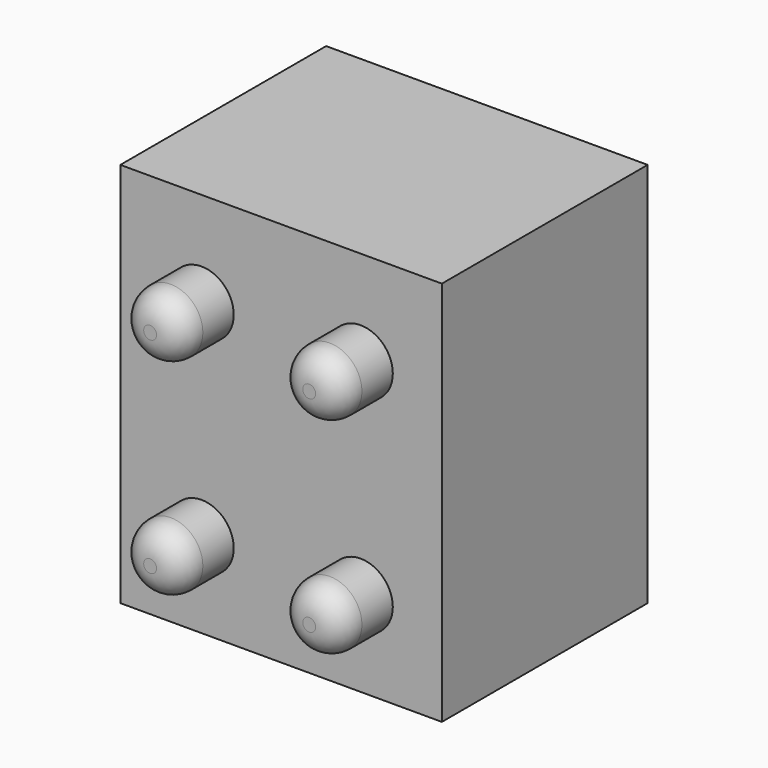
from build123d import *

# Parameters (mm, degrees)
F0_W     = 31.75
F0_H     = 38.1
F1_DEPTH = 25.4
F2_R     = 3.175
F3_DEPTH = 6.35
F4_R     = 2.54


with BuildPart() as f1:
    # F0 (on Front) → F1 (new body)
    with BuildSketch(Plane.XZ):
        Rectangle(F0_W, F0_H)
    extrude(amount=F1_DEPTH)


with BuildPart() as f3:
    # F2 (on face) → F3 (new body)
    with BuildSketch(Plane.XZ.offset(25.4)):
        with Locations((-7.853743, 9.653558)):
            Circle(F2_R)
        with Locations((7.853741, 9.653558)):
            Circle(F2_R)
        with Locations((-7.853743, -10.635276)):
            Circle(F2_R)
        with Locations((7.853741, -10.635276)):
            Circle(F2_R)
    extrude(amount=F3_DEPTH)

    # F4
    f4_edges = [f3.edges().sort_by_distance(p)[0] for p in [
        (-11.028743, -31.75, 9.653558),
        (4.678741, -31.75, 9.653558),
        (4.678741, -31.75, -10.635276),
        (-11.028743, -31.75, -10.635276),
    ]]
    fillet(f4_edges, radius=F4_R)


solid = Compound([f1.part, f3.part])
